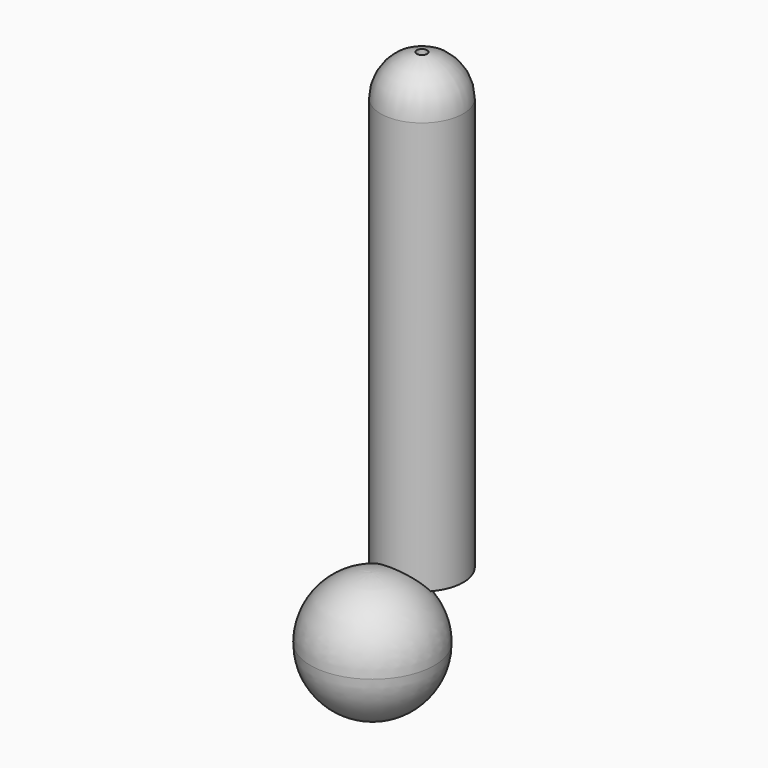
from build123d import *

# Parameters (mm, degrees)
F2_R     = 1.5875
F3_DEPTH = 139.701


with BuildPart() as f1:
    # F0 (on Front) → F1 (revolve)
    with BuildSketch(Plane.XZ):
        with BuildLine():
            Line((-12.7, 0), (0, 0))
            Line((0, 0), (0, 127))
            Line((0, 127), (0, 139.7))
            ThreePointArc((0, 139.7), (-8.980256, 135.980256), (-12.7, 127))
            Line((-12.7, 127), (-12.7, 0))
        make_face()
    revolve(axis=Axis((0, 0, 63.5), (0, 0, 1)))

    # F2 (on face) → F3 (cut, through all)
    with BuildSketch(Plane(origin=(0, 0, 0), x_dir=(1, 0, 0), z_dir=(0, 0, -1))):
        Circle(F2_R)
    extrude(amount=-F3_DEPTH, mode=Mode.SUBTRACT)

    # F4 (on Right) → F5 (revolve)
    with BuildSketch(Plane.YZ):
        with BuildLine():
            Line((-19.05, -12.7), (-19.05, -31.75))
            ThreePointArc((-19.05, -31.75), (-5.579616, -26.170384), (0, -12.7))
            ThreePointArc((0, -12.7), (-5.579616, 0.770384), (-19.05, 6.35))
            Line((-19.05, 6.35), (-19.05, -12.7))
        make_face()
    revolve(axis=Axis((0, -19.05, -22.225), (0, 0, -1)))


solid = f1.part
